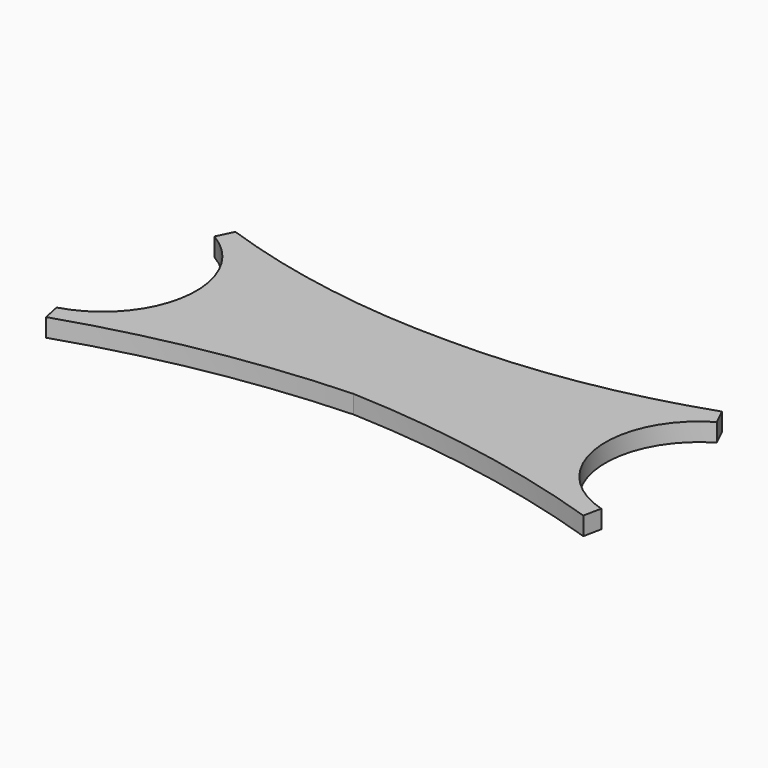
from build123d import *

# Parameters (mm, degrees)
F1_DEPTH = 6.35


with BuildPart() as f1:
    # F0 (on Top) → F1 (new body)
    with BuildSketch(Plane.XY):
        with BuildLine():
            ThreePointArc((56.595426, -29.994748), (104.112935, -35.219585), (150.447966, -46.978728))
            Line((150.447966, -46.978728), (151.739209, -40.761398))
            ThreePointArc((151.739209, -40.761398), (128.348112, -13.36667), (144.359246, 18.901861))
            Line((144.359246, 18.901861), (141.59201, 24.617183))
            ThreePointArc((141.59201, 24.617183), (99.690732, 13.999355), (56.595426, 10.645252))
            ThreePointArc((56.595426, 10.645252), (13.500121, 13.999355), (-28.401157, 24.617183))
            Line((-28.401157, 24.617183), (-31.168393, 18.901861))
            ThreePointArc((-31.168393, 18.901861), (-15.15726, -13.36667), (-38.548357, -40.761398))
            Line((-38.548357, -40.761398), (-37.257114, -46.978728))
            ThreePointArc((-37.257114, -46.978728), (9.077917, -35.219585), (56.595426, -29.994748))
        make_face()
    extrude(amount=F1_DEPTH)


solid = f1.part
